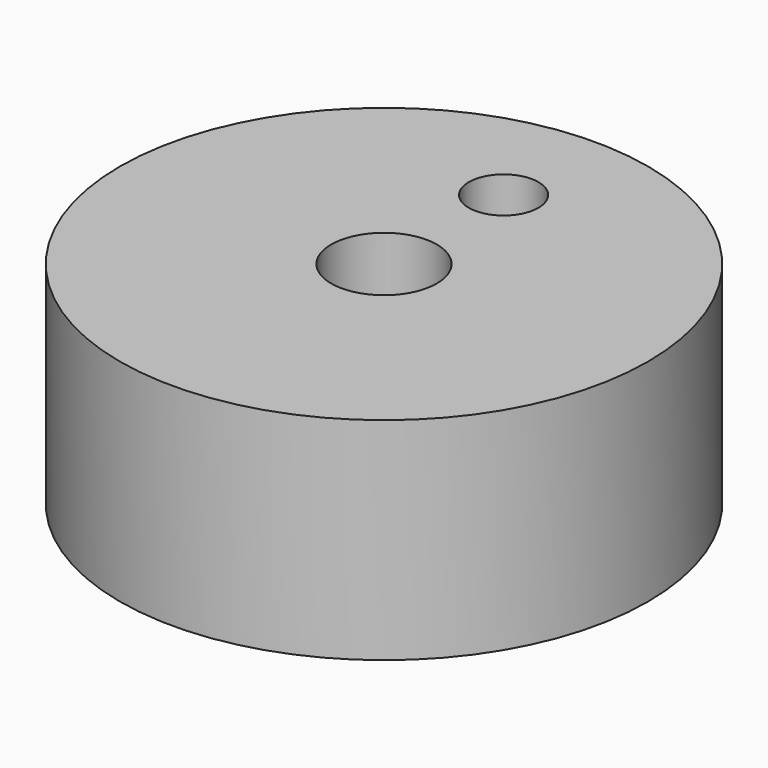
from build123d import *

# Parameters (mm, degrees)
F0_R     = 5
F0_R_2   = 1
F1_DEPTH = 4
F2_R     = 0.659531
F3_DEPTH = 10.72134


with BuildPart() as f1:
    # F0 (on Top) → F1 (new body)
    with BuildSketch(Plane.XY):
        Circle(F0_R)
        Circle(F0_R_2, mode=Mode.SUBTRACT)
    extrude(amount=F1_DEPTH)

    # F2 (on face) → F3 (cut)
    with BuildSketch(Plane.XY.offset(4)):
        with Locations((0, 2.830584)):
            Circle(F2_R)
    extrude(amount=-F3_DEPTH, mode=Mode.SUBTRACT)


solid = f1.part
